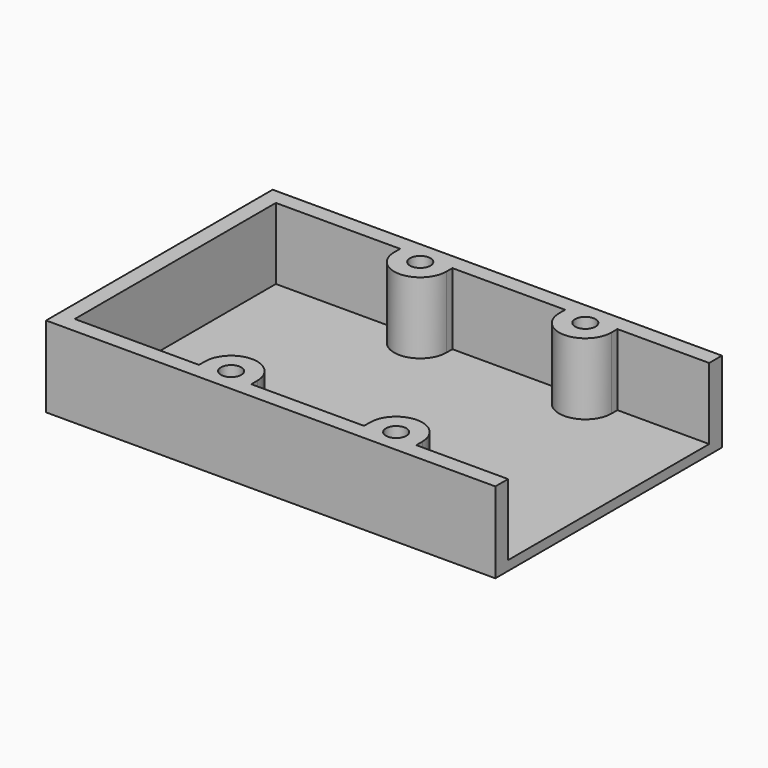
from build123d import *

# Parameters (mm, degrees)
SKETCH_W                 = 70.5
SKETCH_H                 = 44.45
PAD_DEPTH                = 12.7
SKETCH001_R              = 1.6
POCKET_DEPTH             = 181.311112
SKETCH001_MIRRORED_2_R   = 1.6
POCKET_MIRRORED_2_DEPTH  = 181.311112
POCKET001_DEPTH          = 11.2
CLONE001_PLACEMENT_ANGLE = 180


with BuildPart() as part:
    # Sketch → Pad (new body)
    with BuildSketch(Plane.XY):
        with Locations((-3.8, 0)):
            Rectangle(SKETCH_W, SKETCH_H)
    extrude(amount=PAD_DEPTH)

    # Sketch001 (on Face6 of Pad) → Pocket (cut, through all)
    with BuildSketch(Plane.XY.offset(12.7)):
        with Locations((-12.95, 18.55)):
            Circle(SKETCH001_R)
    pocket = extrude(amount=-POCKET_DEPTH, mode=Mode.SUBTRACT)

    # Sketch001 Mirrored 2 → Pocket Mirrored 2 (cut, through all)
    with BuildSketch(Plane(origin=(0, 0, 12.7), x_dir=(-1, 0, 0), z_dir=(0, 0, -1))):
        with Locations((-12.95, 18.55)):
            Circle(SKETCH001_MIRRORED_2_R)
    pocket_mirrored_2 = extrude(amount=POCKET_MIRRORED_2_DEPTH, mode=Mode.SUBTRACT)

    # Mirrored001: Pocket, Pocket Mirrored 2 across XZ
    add(pocket.mirror(Plane.XZ), mode=Mode.SUBTRACT)
    add(pocket_mirrored_2.mirror(Plane.XZ), mode=Mode.SUBTRACT)

    # Sketch002 (on Face4 of MultiTransform) → Pocket001 (cut)
    with BuildSketch(Plane(origin=(0, 0, 0), x_dir=(1, 0, 0), z_dir=(0, 0, -1))):
        with BuildLine():
            Line((-36.55, -19.725), (-36.55, 19.725))
            Line((-36.55, 19.725), (-17.05, 19.725))
            Line((-17.05, 19.725), (-17.05, 18.55))
            ThreePointArc((-17.05, 18.55), (-12.95, 14.45), (-8.85, 18.55))
            Line((-8.85, 19.725), (-8.85, 18.55))
            Line((-8.85, 19.725), (8.85, 19.725))
            Line((8.85, 19.725), (8.85, 18.55))
            ThreePointArc((8.85, 18.55), (12.95, 14.45), (17.05, 18.55))
            Line((17.05, 19.725), (17.05, 18.55))
            Line((31.45, 19.725), (17.05, 19.725))
            Line((31.45, 19.725), (31.45, -19.725))
            Line((31.45, -19.725), (17.05, -19.725))
            Line((17.05, -19.725), (17.05, -18.549981))
            ThreePointArc((17.05, -18.549981), (12.949999, -14.45), (8.85, -18.549983))
            Line((8.85, -19.725), (8.85, -18.549983))
            Line((-8.85, -19.725), (8.85, -19.725))
            Line((-8.85, -19.725), (-8.85, -18.55))
            ThreePointArc((-8.85, -18.55), (-12.95, -14.45), (-17.05, -18.55))
            Line((-17.05, -19.725), (-17.05, -18.55))
            Line((-36.55, -19.725), (-17.05, -19.725))
        make_face()
    extrude(amount=-POCKET001_DEPTH, mode=Mode.SUBTRACT)


with BuildPart() as part_1:
    # Clone001 placement: moved
    add(part.part.moved(Location((0, 0, 12.7))).rotate(Axis((0, 0, 12.7), (1, 0, 0)), CLONE001_PLACEMENT_ANGLE))


solid = part_1.part
